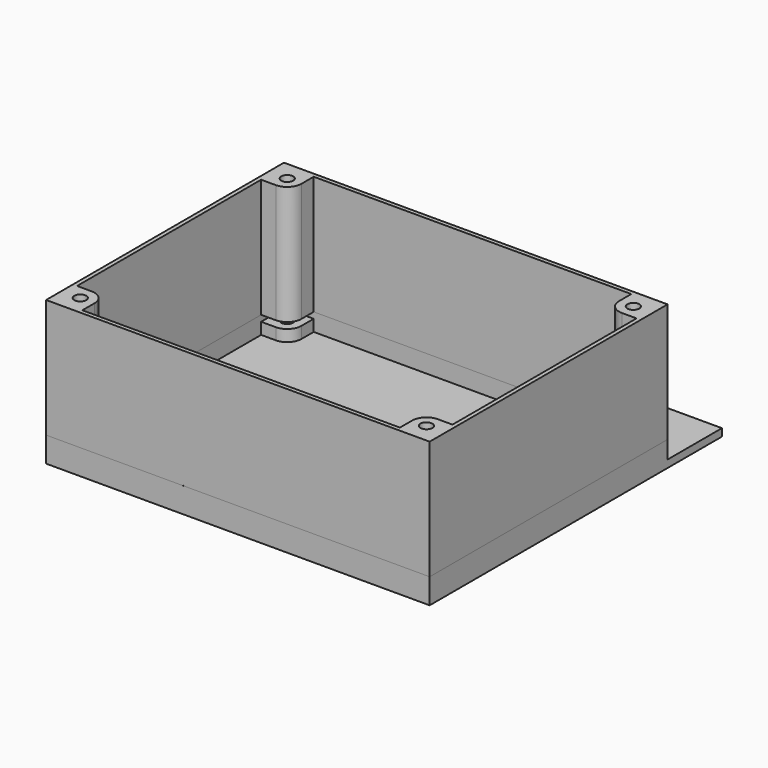
from build123d import *

# Parameters (mm, degrees)
SKETCH_R      = 3
SKETCH_R_2    = 2.2
PAD_DEPTH     = 2.2
SKETCH001_W   = 112.87
SKETCH001_H   = 87.5
SKETCH001_R   = 3
PAD001_DEPTH  = 2.2
SKETCH003_W   = 112.87
SKETCH003_H   = 87.5
SKETCH003_R   = 1.75
PAD002_DEPTH  = 1.2
SKETCH002_W   = 112.87
SKETCH002_H   = 87.5
SKETCH002_W_2 = 110.47
SKETCH002_H_2 = 85.1
PAD003_DEPTH  = 1.8
SKETCH004_W   = 112.87
SKETCH004_H   = 87.5
SKETCH004_R   = 1.75
PAD004_DEPTH  = 35


with BuildPart() as basebody:
    # Sketch → Pad (new body)
    with BuildSketch(Plane.XY):
        Polygon((56.435, 43.75), (56.435, -43.75), (-56.435, -43.75), (-56.435, 43.75), (-56.435, 63.75), (56.435, 63.75), align=None)
        with Locations((-50.925, 38.05)):
            Circle(SKETCH_R, mode=Mode.SUBTRACT)
        with Locations((50.925, 38.05)):
            Circle(SKETCH_R, mode=Mode.SUBTRACT)
        with Locations((50.925, -38.05)):
            Circle(SKETCH_R, mode=Mode.SUBTRACT)
        with Locations((-50.925, -38.05)):
            Circle(SKETCH_R, mode=Mode.SUBTRACT)
        with Locations((-41.435, 53.75)):
            Circle(SKETCH_R_2, mode=Mode.SUBTRACT)
        with Locations((41.435, 53.75)):
            Circle(SKETCH_R_2, mode=Mode.SUBTRACT)
    extrude(amount=PAD_DEPTH)

    # Sketch001 → Pad001 (join)
    with BuildSketch(Plane.XY.offset(2.2)):
        Rectangle(SKETCH001_W, SKETCH001_H)
        with Locations((-50.925, 38.05)):
            Circle(SKETCH001_R, mode=Mode.SUBTRACT)
        with Locations((50.925, 38.05)):
            Circle(SKETCH001_R, mode=Mode.SUBTRACT)
        with Locations((50.925, -38.05)):
            Circle(SKETCH001_R, mode=Mode.SUBTRACT)
        with Locations((-50.925, -38.05)):
            Circle(SKETCH001_R, mode=Mode.SUBTRACT)
        with BuildLine():
            Line((55.235, 33.85), (55.235, -33.85))
            Line((50.925, -33.85), (55.235, -33.85))
            ThreePointArc((50.925, -33.85), (47.955152, -35.080152), (46.725, -38.05))
            Line((46.725, -38.05), (46.725, -42.55))
            Line((46.725, -42.55), (-46.725, -42.55))
            Line((-46.725, -38.05), (-46.725, -42.55))
            ThreePointArc((-46.725, -38.05), (-47.955152, -35.080152), (-50.925, -33.85))
            Line((-50.925, -33.85), (-55.235, -33.85))
            Line((-55.235, -33.85), (-55.235, 33.85))
            Line((-55.235, 33.85), (-50.925, 33.85))
            ThreePointArc((-50.925, 33.85), (-47.955152, 35.080152), (-46.725, 38.05))
            Line((-46.725, 42.55), (-46.725, 38.05))
            Line((-46.725, 42.55), (46.725, 42.55))
            Line((46.725, 38.05), (46.725, 42.55))
            ThreePointArc((46.725, 38.05), (47.955152, 35.080152), (50.925, 33.85))
            Line((50.925, 33.85), (55.235, 33.85))
        make_face(mode=Mode.SUBTRACT)
    extrude(amount=PAD001_DEPTH)

    # Sketch003 → Pad002 (join)
    with BuildSketch(Plane.XY.offset(4.4)):
        Rectangle(SKETCH003_W, SKETCH003_H)
        with Locations((-50.925, 38.05)):
            Circle(SKETCH003_R, mode=Mode.SUBTRACT)
        with Locations((50.925, 38.05)):
            Circle(SKETCH003_R, mode=Mode.SUBTRACT)
        with Locations((50.925, -38.05)):
            Circle(SKETCH003_R, mode=Mode.SUBTRACT)
        with Locations((-50.925, -38.05)):
            Circle(SKETCH003_R, mode=Mode.SUBTRACT)
        with BuildLine():
            Line((55.235, 33.85), (55.235, -33.85))
            Line((50.925, -33.85), (55.235, -33.85))
            ThreePointArc((50.925, -33.85), (47.955152, -35.080152), (46.725, -38.05))
            Line((46.725, -38.05), (46.725, -42.55))
            Line((46.725, -42.55), (-46.725, -42.55))
            Line((-46.725, -38.05), (-46.725, -42.55))
            ThreePointArc((-46.725, -38.05), (-47.955152, -35.080152), (-50.925, -33.85))
            Line((-50.925, -33.85), (-55.235, -33.85))
            Line((-55.235, -33.85), (-55.235, 33.85))
            Line((-55.235, 33.85), (-50.925, 33.85))
            ThreePointArc((-50.925, 33.85), (-47.955152, 35.080152), (-46.725, 38.05))
            Line((-46.725, 42.55), (-46.725, 38.05))
            Line((-46.725, 42.55), (46.725, 42.55))
            Line((46.725, 38.05), (46.725, 42.55))
            ThreePointArc((46.725, 38.05), (47.955152, 35.080152), (50.925, 33.85))
            Line((50.925, 33.85), (55.235, 33.85))
        make_face(mode=Mode.SUBTRACT)
    extrude(amount=PAD002_DEPTH)

    # Sketch002 → Pad003 (join)
    with BuildSketch(Plane.XY.offset(5.6)):
        Rectangle(SKETCH002_W, SKETCH002_H)
        Rectangle(SKETCH002_W_2, SKETCH002_H_2, mode=Mode.SUBTRACT)
    extrude(amount=PAD003_DEPTH)


with BuildPart() as basebody_1:
    # Body placement: moved
    add(basebody.part.moved(Location((0, 0, -7.4))))


with BuildPart() as coverbody:
    # Sketch004 → Pad004 (new body)
    with BuildSketch(Plane.XY):
        Rectangle(SKETCH004_W, SKETCH004_H)
        with Locations((-50.925, 38.05)):
            Circle(SKETCH004_R, mode=Mode.SUBTRACT)
        with Locations((50.925, 38.05)):
            Circle(SKETCH004_R, mode=Mode.SUBTRACT)
        with Locations((50.925, -38.05)):
            Circle(SKETCH004_R, mode=Mode.SUBTRACT)
        with Locations((-50.925, -38.05)):
            Circle(SKETCH004_R, mode=Mode.SUBTRACT)
        with BuildLine():
            Line((55.235, 33.85), (55.235, -33.85))
            Line((50.925, -33.85), (55.235, -33.85))
            ThreePointArc((50.925, -33.85), (47.955152, -35.080152), (46.725, -38.05))
            Line((46.725, -38.05), (46.725, -42.55))
            Line((46.725, -42.55), (-46.725, -42.55))
            Line((-46.725, -38.05), (-46.725, -42.55))
            ThreePointArc((-46.725, -38.05), (-47.955152, -35.080152), (-50.925, -33.85))
            Line((-50.925, -33.85), (-55.235, -33.85))
            Line((-55.235, -33.85), (-55.235, 33.85))
            Line((-55.235, 33.85), (-50.925, 33.85))
            ThreePointArc((-50.925, 33.85), (-47.955152, 35.080152), (-46.725, 38.05))
            Line((-46.725, 42.55), (-46.725, 38.05))
            Line((-46.725, 42.55), (46.725, 42.55))
            Line((46.725, 38.05), (46.725, 42.55))
            ThreePointArc((46.725, 38.05), (47.955152, 35.080152), (50.925, 33.85))
            Line((50.925, 33.85), (55.235, 33.85))
        make_face(mode=Mode.SUBTRACT)
    extrude(amount=PAD004_DEPTH)


solid = Compound([basebody_1.part, coverbody.part])
